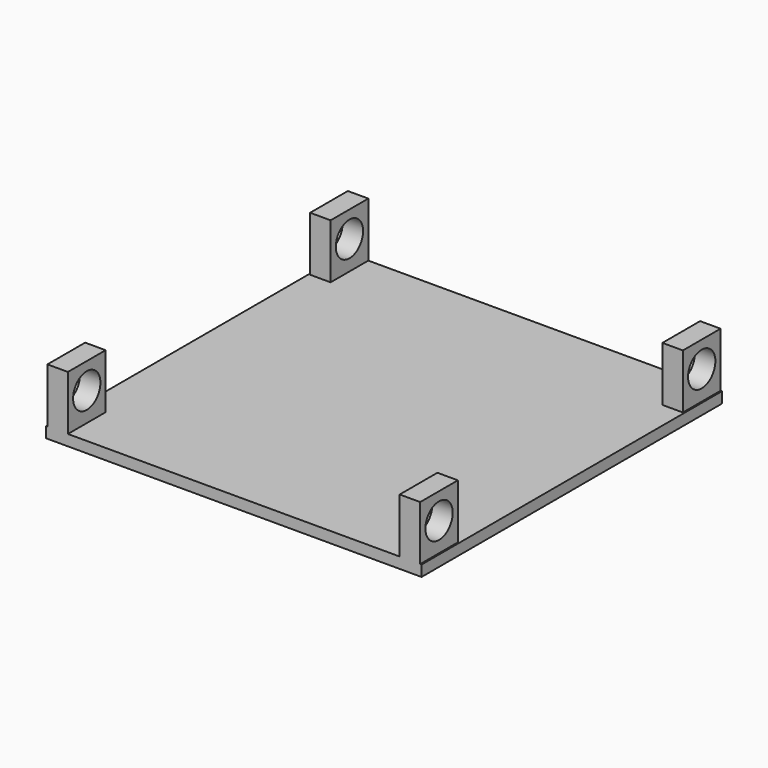
from build123d import *

# Parameters (mm, degrees)
F0_W     = 55
F0_H     = 55
F1_DEPTH = 1.6
F2_W     = 3
F2_H     = 6.9
F3_DEPTH = 8
F4_R     = 2.5
F5_DEPTH = 54.801


with BuildPart() as f1:
    # F0 (on Top) → F1 (new body)
    with BuildSketch(Plane.XY):
        Rectangle(F0_W, F0_H)
    extrude(amount=F1_DEPTH)

    # F2 (on face) → F3 (join)
    with BuildSketch(Plane.XY.offset(1.6)):
        with Locations((25.8, 24.05)):
            Rectangle(F2_W, F2_H)
        with Locations((25.8, -24.05)):
            Rectangle(F2_W, F2_H)
        with Locations((-25.8, -24.05)):
            Rectangle(F2_W, F2_H)
        with Locations((-25.8, 24.05)):
            Rectangle(F2_W, F2_H)
    extrude(amount=F3_DEPTH)

    # F4 (on face) → F5 (cut, through all)
    with BuildSketch(Plane.YZ.offset(27.3)):
        with Locations((24.05, 5.8)):
            Circle(F4_R)
        with Locations((-24.05, 5.8)):
            Circle(F4_R)
    extrude(amount=-F5_DEPTH, mode=Mode.SUBTRACT)


solid = f1.part
